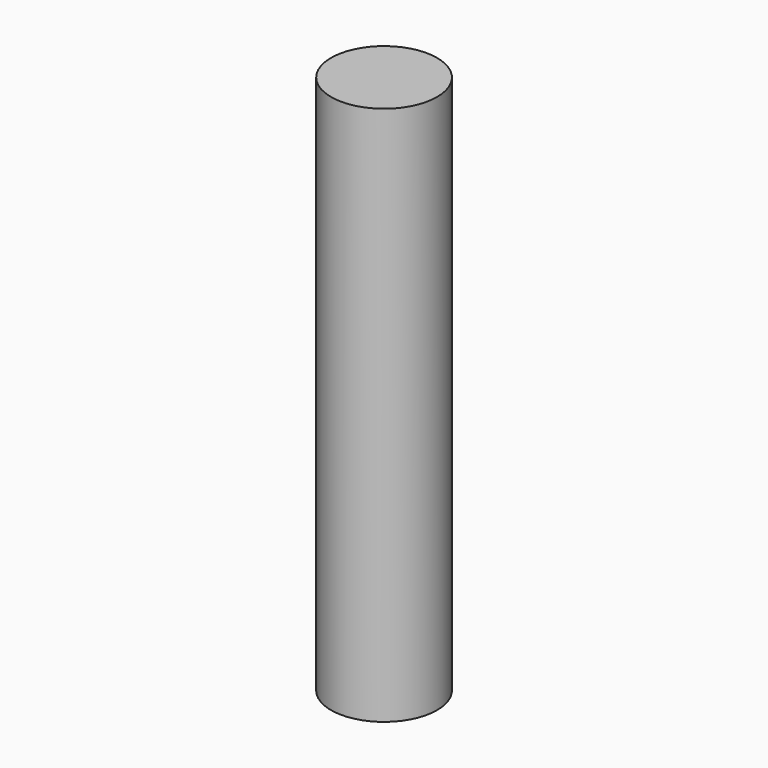
from build123d import *

# Parameters (mm, degrees)
CYLINDER_R     = 1.4732
CYLINDER_DEPTH = 15


with BuildPart() as part:
    # Cylinder → Cylinder (new body)
    with BuildSketch(Plane.XY.offset(-2.5)):
        Circle(CYLINDER_R)
    extrude(amount=CYLINDER_DEPTH)


solid = part.part
